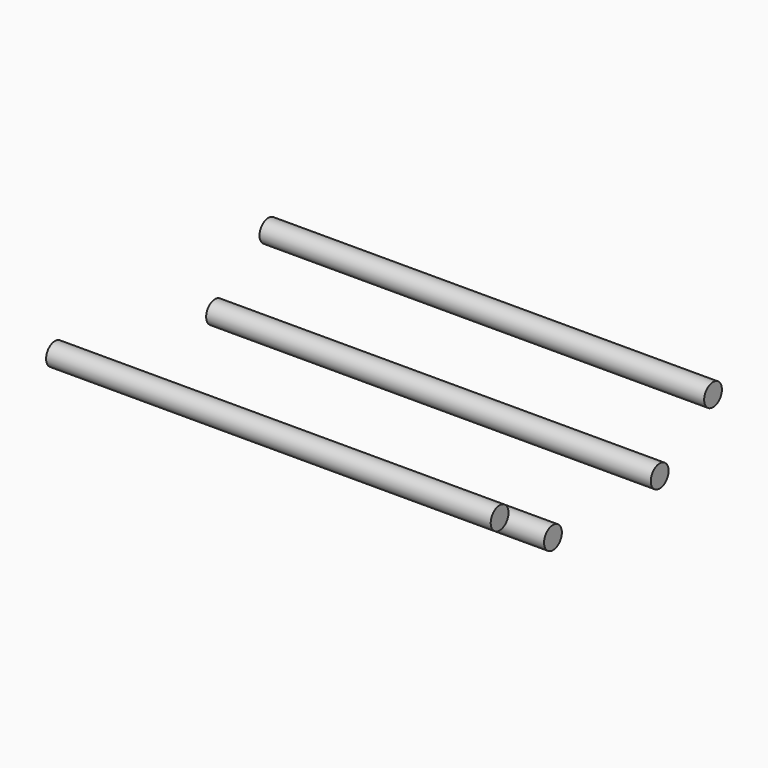
from build123d import *

# Parameters (mm, degrees)
CYLINDER005_R      = 1.5
CYLINDER005_DEPTH  = 60
CYLINDER1198_R     = 1.5
CYLINDER1198_DEPTH = 60
CYLINDER1259_R     = 1.5
CYLINDER1259_DEPTH = 60
CYLINDER004_R      = 1.5
CYLINDER004_DEPTH  = 60


with BuildPart() as cylinder005:
    # Cylinder005 → Cylinder005 (new body)
    with BuildSketch(Plane(origin=(432, 67, 100), x_dir=(0, 0, -1), z_dir=(1, 0, 0))):
        Circle(CYLINDER005_R)
    extrude(amount=CYLINDER005_DEPTH)


with BuildPart() as cylinder1198:
    # Cylinder1198 → Cylinder1198 (new body)
    with BuildSketch(Plane(origin=(432, 94, 94), x_dir=(0, 0, -1), z_dir=(1, 0, 0))):
        Circle(CYLINDER1198_R)
    extrude(amount=CYLINDER1198_DEPTH)


with BuildPart() as cylinder1259:
    # Cylinder1259 → Cylinder1259 (new body)
    with BuildSketch(Plane(origin=(432, 76, 94), x_dir=(0, 0, -1), z_dir=(1, 0, 0))):
        Circle(CYLINDER1259_R)
    extrude(amount=CYLINDER1259_DEPTH)


with BuildPart() as fusion248002050187:
    # Cylinder004 → Cylinder004 (new body)
    with BuildSketch(Plane(origin=(432, 103, 100), x_dir=(0, 0, -1), z_dir=(1, 0, 0))):
        Circle(CYLINDER004_R)
    extrude(amount=CYLINDER004_DEPTH)

    # Fusion248002050187: union Cylinder005, Cylinder1198, Cylinder1259
    add(cylinder005.part)
    add(cylinder1198.part)
    add(cylinder1259.part)


solid = fusion248002050187.part
